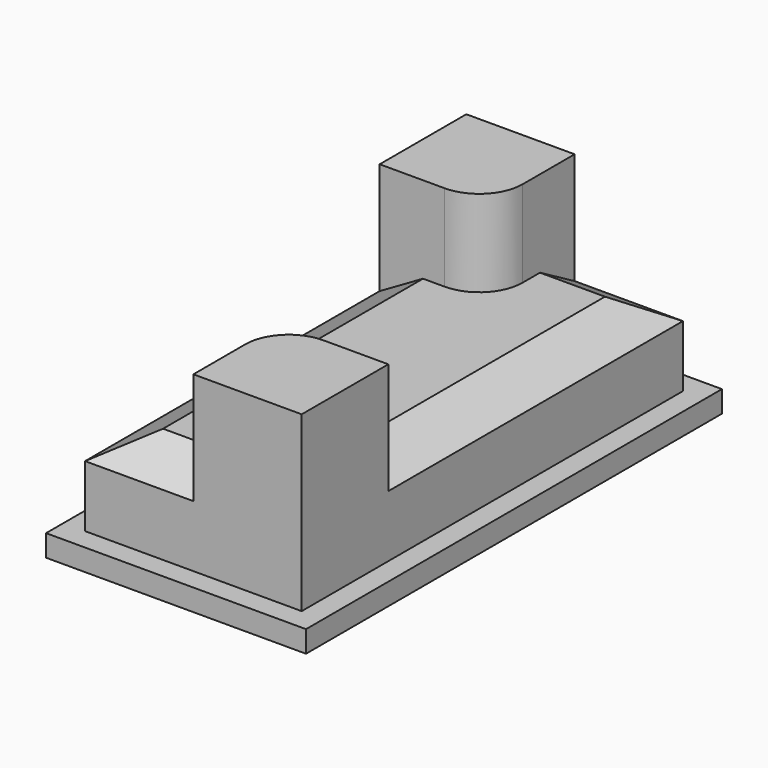
from build123d import *

# Parameters (mm, degrees)
F0_W     = 76.2
F0_H     = 152.4
F1_DEPTH = 6.35
F2_DEPTH = 25.4
F3_SIZE2 = 7.3323484187
F3_SIZE  = 12.7
F4_DEPTH = 50.8


with BuildPart() as f1:
    # F0 (on Top) → F1 (new body)
    with BuildSketch(Plane.XY):
        with Locations((0, 0.0668413997)):
            Rectangle(F0_W, F0_H)
        Polygon((-31.75, 38.1668413997), (-31.75, 69.9168413997), (0, 69.9168413997), (31.75, 69.9168413997), (31.75, -38.0331586003), (31.75, -69.7831586003), (0, -69.7831586003), (-31.75, -69.7831586003), align=None, mode=Mode.SUBTRACT)
    extrude(amount=-F1_DEPTH)



with BuildPart() as f2:
    # F0 (on Top) → F2 (new body)
    with BuildSketch(Plane.XY):
        with BuildLine():
            Line((31.75, 69.9168413997), (0, 69.9168413997))
            Line((0, 69.9168413997), (0, 50.8668413997))
            ThreePointArc((0, 50.8668413997), (-3.7197438789, 41.8865852786), (-12.7, 38.1668413997))
            Line((-12.7, 38.1668413997), (-31.75, 38.1668413997))
            Line((-31.75, 38.1668413997), (-31.75, -69.7831586003))
            Line((-31.75, -69.7831586003), (0, -69.7831586003))
            Line((0, -69.7831586003), (0, -50.7331586003))
            ThreePointArc((0, -50.7331586003), (3.7197438789, -41.7529024793), (12.7, -38.0331586003))
            Line((12.7, -38.0331586003), (31.75, -38.0331586003))
            Line((31.75, -38.0331586003), (31.75, 69.9168413997))
        make_face()
    extrude(amount=F2_DEPTH)

    # F3
    f3_edges = [f2.edges().sort_by_distance(p)[0] for p in [
        (-15.875, -69.783159, 25.4),
        (-31.75, -15.808159, 25.4),
        (31.75, 15.941841, 25.4),
        (15.875, 69.916841, 25.4),
    ]]
    f3_side = f2.faces().sort_by_distance((0, 0.066841, 25.4))[0]
    chamfer(f3_edges, length=F3_SIZE, length2=F3_SIZE2, reference=f3_side)


with BuildPart() as f1_1:
    add(f1.part)

    add(f2.part)  # F4 merges F2
    # F0 (on Top) → F4 (join)
    with BuildSketch(Plane.XY):
        with BuildLine():
            Line((0, 69.9168413997), (-31.75, 69.9168413997))
            Line((-31.75, 69.9168413997), (-31.75, 38.1668413997))
            Line((-31.75, 38.1668413997), (-12.7, 38.1668413997))
            ThreePointArc((-12.7, 38.1668413997), (-3.7197438789, 41.8865852786), (0, 50.8668413997))
            Line((0, 50.8668413997), (0, 69.9168413997))
        make_face()
        with BuildLine():
            Line((31.75, -69.7831586003), (31.75, -38.0331586003))
            Line((31.75, -38.0331586003), (12.7, -38.0331586003))
            ThreePointArc((12.7, -38.0331586003), (3.7197438789, -41.7529024793), (0, -50.7331586003))
            Line((0, -50.7331586003), (0, -69.7831586003))
            Line((0, -69.7831586003), (31.75, -69.7831586003))
        make_face()
    extrude(amount=F4_DEPTH)


solid = f1_1.part
